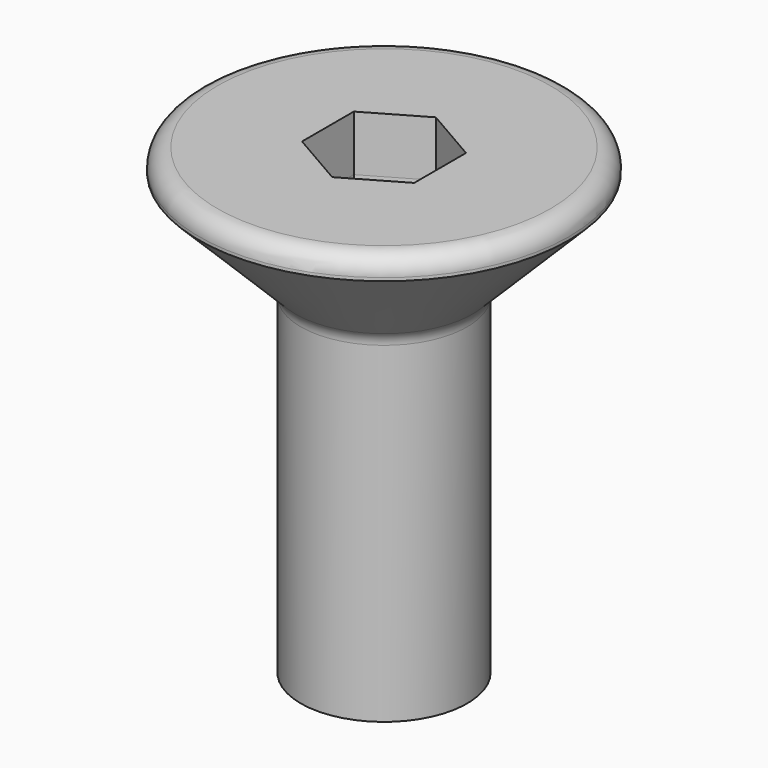
from build123d import *

# Parameters (mm, degrees)
F3_DEPTH = 5
F4_R     = 2


with BuildPart() as f1:
    # F0 (on Front) → F1 (revolve)
    with BuildSketch(Plane.XZ):
        with BuildLine():
            Line((0, -25), (0, 0))
            Line((0, 0), (-9, 0))
            ThreePointArc((-9, 0), (-9.707107, -0.292893), (-10, -1))
            Line((-10, -1), (-10, -1.17097))
            Line((-10, -1.17097), (-4.791713, -6.379256))
            ThreePointArc((-4.791713, -6.379256), (-4.57494, -6.70368), (-4.49882, -7.086363))
            Line((-4.49882, -7.086363), (-4.49882, -25))
            Line((-4.49882, -25), (0, -25))
        make_face()
    revolve(axis=Axis((0, 0, -11.455107), (0, 0, -1)))

    # F2 (on face) → F3 (cut)
    with BuildSketch(Plane.XY):
        Polygon((-3.031089, -1.75), (0, -3.5), (3.031089, -1.75), (3.031089, 1.75), (0, 3.5), (-3.031089, 1.75), align=None)
    extrude(amount=-F3_DEPTH, mode=Mode.SUBTRACT)

    # F4
    f4_edges = [f1.edges().sort_by_distance(p)[0] for p in [
        (1.515544, -2.625, -5),
        (3.031089, 0, -5),
        (-1.515544, -2.625, -5),
        (-3.031089, 0, -5),
        (-1.515544, 2.625, -5),
        (1.515544, 2.625, -5),
    ]]
    fillet(f4_edges, radius=F4_R)


solid = f1.part
